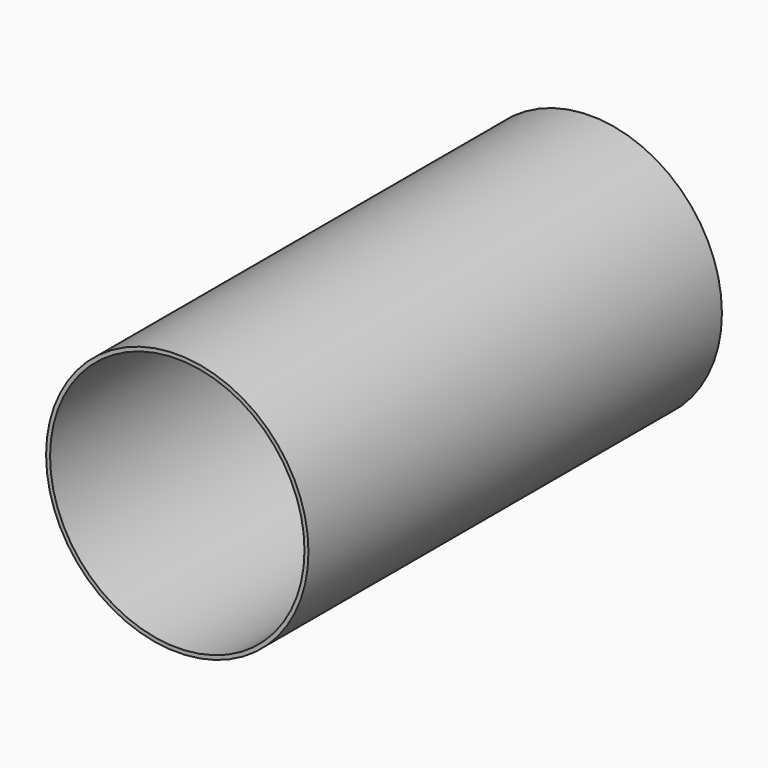
from build123d import *

# Parameters (mm, degrees)
F0_R     = 16.5
F0_R_2   = 16
F1_DEPTH = 65
F2_R     = 16
F2_R_2   = 12.5
F3_DEPTH = 1


with BuildPart() as f1:
    # F0 (on Front) → F1 (new body)
    with BuildSketch(Plane.XZ):
        Circle(F0_R)
        Circle(F0_R_2, mode=Mode.SUBTRACT)
    extrude(amount=F1_DEPTH)

    # F2 (on face) → F3 (join)
    with BuildSketch(Plane.XZ):
        Circle(F2_R)
        Circle(F2_R_2, mode=Mode.SUBTRACT)
    extrude(amount=F3_DEPTH)


solid = f1.part
